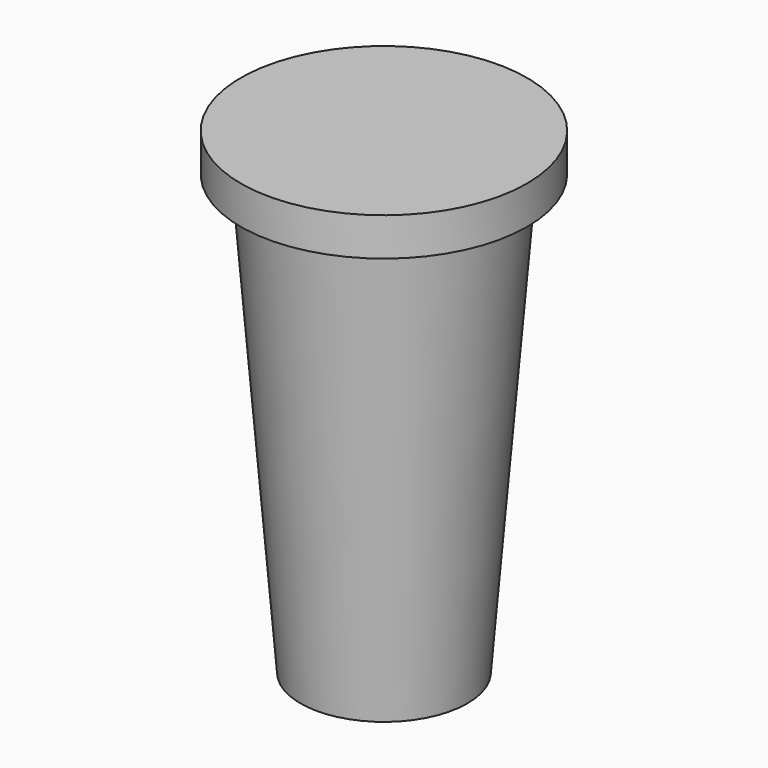
from build123d import *

# Parameters (mm, degrees)
CYLINDER_R     = 30
CYLINDER_DEPTH = 8


with BuildPart() as cone:
    # Cone → Cone (revolve)
    with BuildSketch(Plane.XZ):
        Polygon((0, 0), (17.5, 0), (25, 92), (0, 92), align=None)
    revolve(axis=Axis((0, 0, 0), (0, 0, 1)))


with BuildPart() as fusion:
    # Cylinder → Cylinder (new body)
    with BuildSketch(Plane.XY.offset(92)):
        Circle(CYLINDER_R)
    extrude(amount=CYLINDER_DEPTH)

    # Fusion: union Cone
    add(cone.part)


solid = fusion.part
